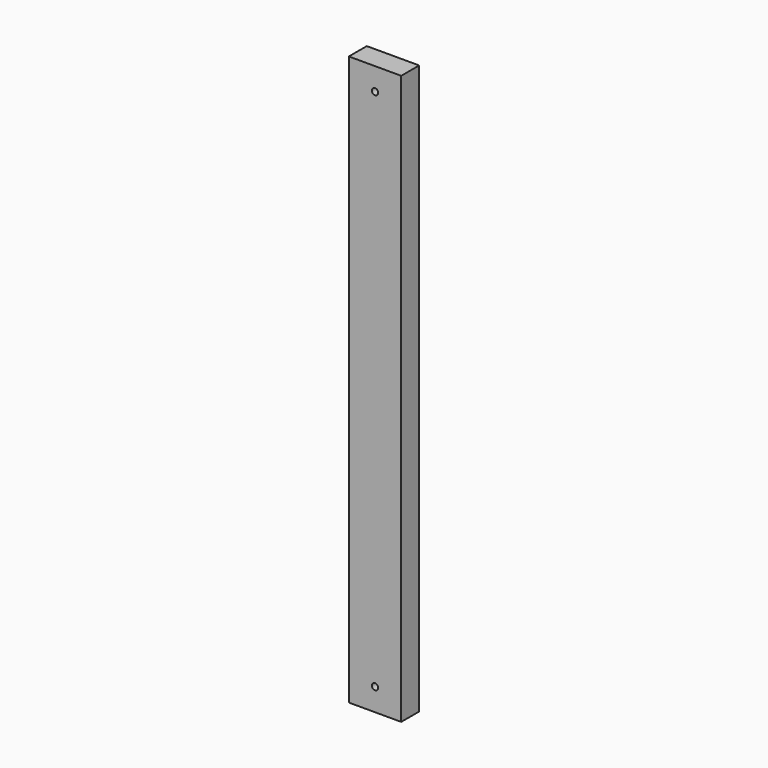
from build123d import *

# Parameters (mm, degrees)
F1_DEPTH = 15
F3_DEPTH = 500


with BuildPart() as f1:
    # F0 (on Front) → F1 (new body, symmetric)
    with BuildSketch(Plane.XZ):
        Polygon((35, 730), (0, 730), (-35, 730), (-35, 0), (-35, -30), (0, -30), (35, -30), (35, 0), align=None)
        with BuildLine():
            ThreePointArc((4.25, 0), (-3.00520382, -3.00520382), (0, 4.25))
            ThreePointArc((0, 4.25), (3.00520382, 3.00520382), (4.25, 0))
        make_face(mode=Mode.SUBTRACT)
        with BuildLine():
            ThreePointArc((4.25, 700), (3.00520382, 696.99479618), (0, 695.75))
            ThreePointArc((0, 695.75), (-4.25, 700), (0, 704.25))
            ThreePointArc((0, 704.25), (3.00520382, 703.00520382), (4.25, 700))
        make_face(mode=Mode.SUBTRACT)
    extrude(amount=F1_DEPTH, both=True)


with BuildPart() as f3:
    # F2 (on Top) → F3 (new body)
    with BuildSketch(Plane.XY):
        with BuildLine():
            ThreePointArc((0, 46), (2.8284271247, 47.1715728753), (4, 50))
            ThreePointArc((4, 50), (-2.8284271247, 52.8284271247), (0, 46))
        make_face()
    extrude(amount=F3_DEPTH)


solid = Compound([f1.part, f3.part])
